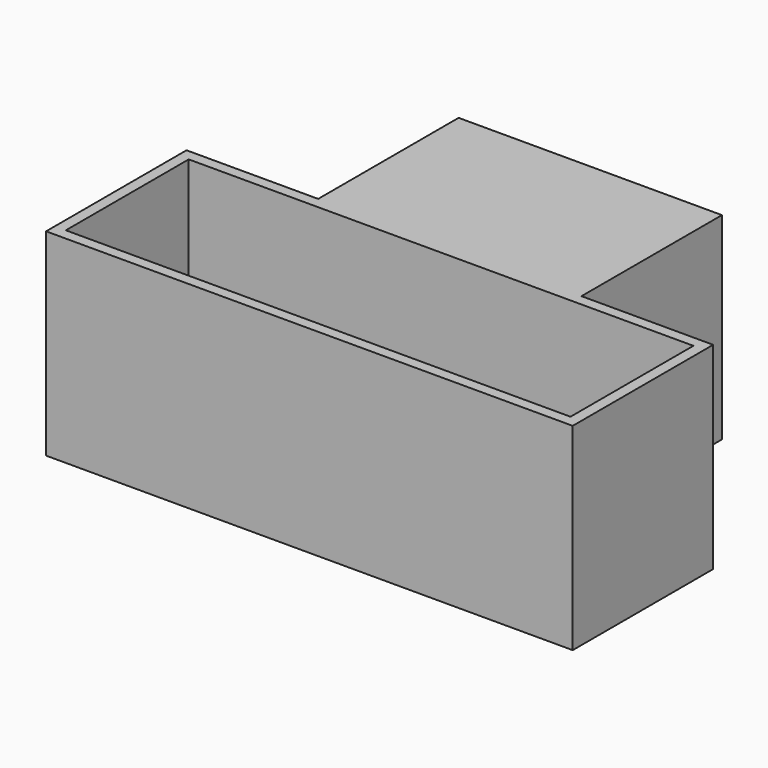
from build123d import *

# Parameters (mm, degrees)
F0_W     = 38.1
F0_H     = 25.4
F1_DEPTH = 57.15
F2_W     = 146.05
F2_H     = 44.45
F3_DEPTH = 50.8


with BuildPart() as f1:
    # F0 (on Top) → F1 (new body)
    with BuildSketch(Plane.XY):
        Polygon((76.2, -25.4), (76.2, 25.4), (38.1, 25.4), (0, 25.4), (-38.1, 25.4), (-76.2, 25.4), (-76.2, -25.4), align=None)
        with Locations((19.05, 38.1)):
            Rectangle(F0_W, F0_H)
        with Locations((-19.05, 38.1)):
            Rectangle(F0_W, F0_H)
        Polygon((0, 50.8), (38.1, 50.8), (38.1, 76.2), (-38.1, 76.2), (-38.1, 50.8), align=None)
    extrude(amount=F1_DEPTH)

    # F2 (on face) → F3 (cut)
    with BuildSketch(Plane.XY.offset(57.15)):
        Rectangle(F2_W, F2_H)
    extrude(amount=-F3_DEPTH, mode=Mode.SUBTRACT)


solid = f1.part
